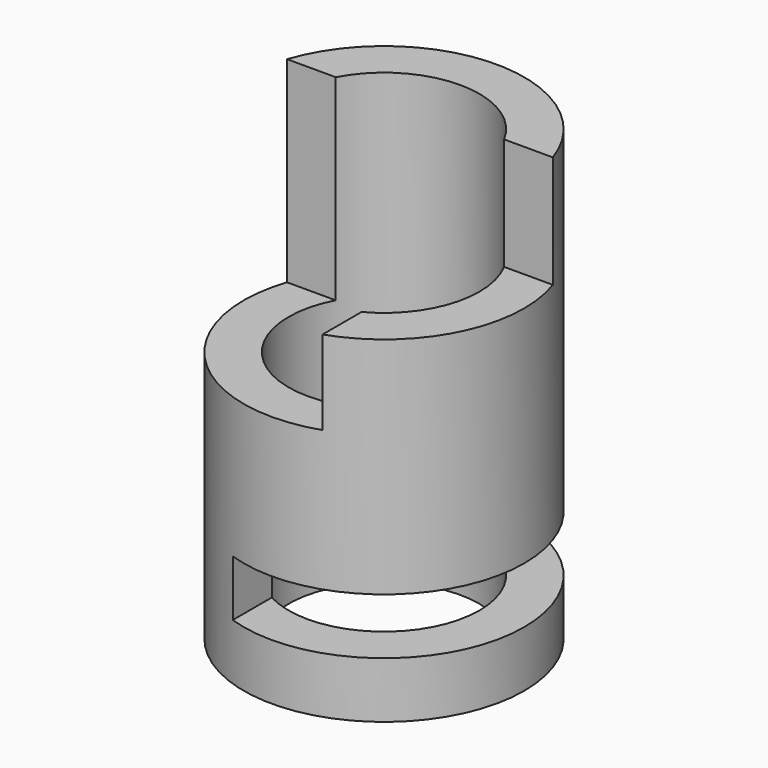
from build123d import *

# Parameters (mm, degrees)
F0_R     = 25
F1_DEPTH = 80
F2_R     = 17
F3_DEPTH = 80
F5_W     = 25
F5_H     = 35
F6_DEPTH = 33
F5_W_2   = 8
F5_H_2   = 10
F7_DEPTH = 50


with BuildPart() as f1:
    # F0 (on Top) → F1 (new body)
    with BuildSketch(Plane.XY):
        Circle(F0_R)
    extrude(amount=F1_DEPTH)

    # F2 (on face) → F3 (cut)
    with BuildSketch(Plane.XY.offset(80)):
        Circle(F2_R)
    extrude(amount=-F3_DEPTH, mode=Mode.SUBTRACT)

    # F5 (on offset) → F6 (cut)
    with BuildSketch(Plane.XZ.offset(25)):
        Polygon((0, 80), (0, 45), (8, 45), (8, 60), (25, 60), (25, 80), (8, 80), align=None)
        with Locations((-12.5, 62.5)):
            Rectangle(F5_W, F5_H)
    extrude(amount=-F6_DEPTH, mode=Mode.SUBTRACT)

    # F5 (on offset) → F7 (cut)
    with BuildSketch(Plane.XZ.offset(25)):
        with Locations((-4, 15)):
            Rectangle(F5_W_2, F5_H_2)
        with Locations((12.5, 15)):
            Rectangle(F5_W, F5_H_2)
    extrude(amount=-F7_DEPTH, mode=Mode.SUBTRACT)


solid = f1.part
